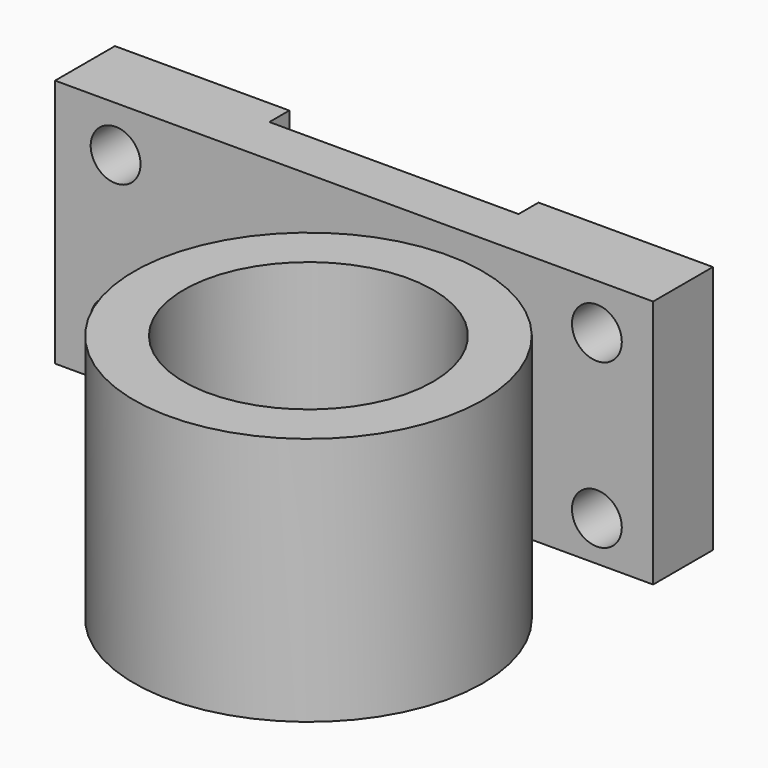
from build123d import *

# Parameters (mm, degrees)
F0_W     = 120
F0_H     = 50
F0_R     = 5
F1_DEPTH = 10
F2_W     = 35
F2_H     = 5
F3_DEPTH = 50
F4_DEPTH = 5.001
F5_W     = 10
F5_H     = 20
F6_DEPTH = 12
F7_R     = 35
F7_R_2   = 25
F8_DEPTH = 50


with BuildPart() as f1:
    # F0 (on Front) → F1 (new body)
    with BuildSketch(Plane.XZ):
        with Locations((3.4489054233, -25.4326851939)):
            Rectangle(F0_W, F0_H)
        with Locations((-44.404655695, -40.0935262442)):
            Circle(F0_R, mode=Mode.SUBTRACT)
        with Locations((52.1646887064, -42.3927977681)):
            Circle(F0_R, mode=Mode.SUBTRACT)
        with Locations((-44.404655695, -9.6281943843)):
            Circle(F0_R, mode=Mode.SUBTRACT)
        with Locations((52.1646887064, -9.6281943843)):
            Circle(F0_R, mode=Mode.SUBTRACT)
    extrude(amount=F1_DEPTH)

    # F2 (on face) → F3 (join)
    with BuildSketch(Plane(origin=(0, 0, -50.4326851939), x_dir=(1, 0, 0), z_dir=(0, 0, -1))):
        with Locations((-39.0510945767, -2.5)):
            Rectangle(F2_W, F2_H)
        with Locations((45.9489054233, -2.5)):
            Rectangle(F2_W, F2_H)
    extrude(amount=-F3_DEPTH)

    # F4 (cut, through all): faces of the model
    f4_faces = [f1.faces().sort_by_distance(p)[0] for p in [
        (-44.404655695, 0, -9.6281943843),
        (-44.404655695, 0, -40.0935262442),
        (52.1646887064, 0, -9.6281943843),
        (52.1646887064, 0, -42.3927977681),
    ]]
    extrude(f4_faces, amount=-F4_DEPTH, mode=Mode.SUBTRACT)

    # F5 (on face) → F6 (join)
    with BuildSketch(Plane.XZ.offset(10)):
        with Locations((31.8867192038, -37.6391001046)):
            Rectangle(F5_W, F5_H)
    extrude(amount=F6_DEPTH)

    # F7 (on face) → F8 (join)
    with BuildSketch(Plane(origin=(0, 0, -47.6391001046), x_dir=(1, 0, 0), z_dir=(0, 0, -1))):
        with Locations((31.8867192038, 57)):
            Circle(F7_R)
        with Locations((31.8867192038, 57)):
            Circle(F7_R_2, mode=Mode.SUBTRACT)
    extrude(amount=-F8_DEPTH)


solid = f1.part
